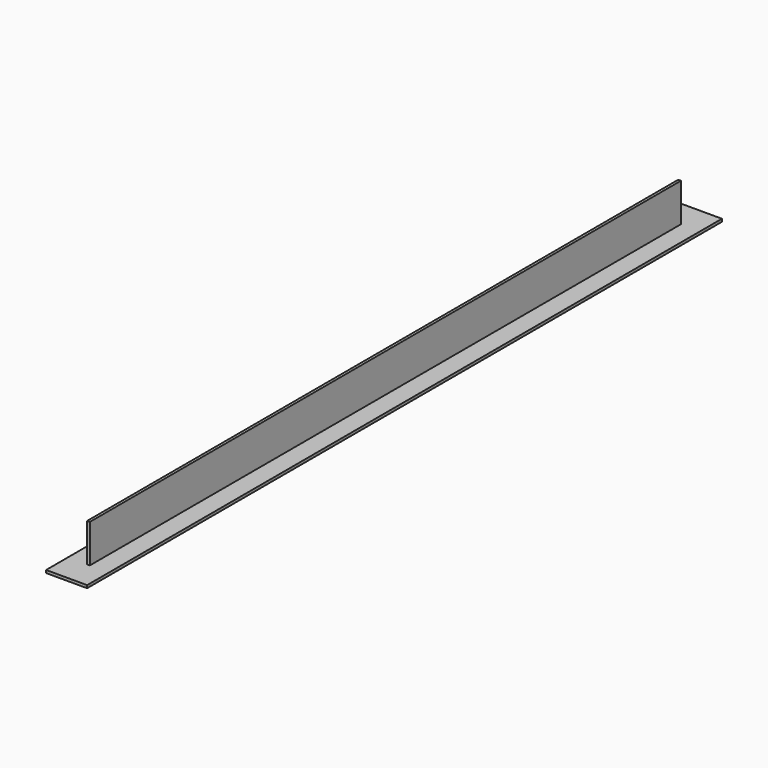
from build123d import *

# Parameters (mm, degrees)
F1_DEPTH = 540
F3_DEPTH = 20
F5_DEPTH = 20


with BuildPart() as f1:
    # F0 (on Front) → F1 (new body)
    with BuildSketch(Plane.XZ):
        Polygon((1, 30), (0, 30), (-1, 30), (-1, 2), (-15, 2), (-15, 0), (0, 0), (15, 0), (15, 2), (1, 2), align=None)
    extrude(amount=F1_DEPTH)

    # F2 (on face) → F3 (join)
    with BuildSketch(Plane(origin=(0, 0, 0), x_dir=(-1, 0, 0), z_dir=(0, 1, 0))):
        Polygon((-1, 2), (-15, 2), (-15, 0), (15, 0), (15, 2), (1, 2), align=None)
    extrude(amount=F3_DEPTH)

    # F4 (on face) → F5 (join)
    with BuildSketch(Plane.XZ.offset(540)):
        Polygon((-1, 2), (-15, 2), (-15, 0), (15, 0), (15, 2), (1, 2), align=None)
    extrude(amount=F5_DEPTH)


solid = f1.part
